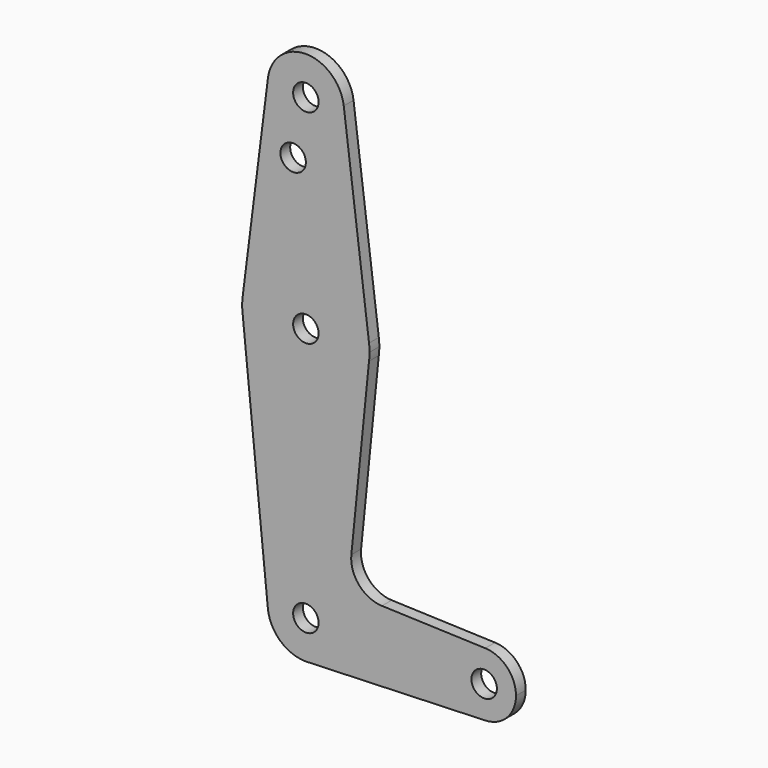
from build123d import *

# Parameters (mm, degrees)
F0_R     = 3.175
F1_DEPTH = 3.048


with BuildPart() as f1:
    # F0 (on Front) → F1 (new body)
    with BuildSketch(Plane.XZ):
        with BuildLine():
            ThreePointArc((15.750488, 61.515625), (15.843841, 62.505861), (15.875, 63.5))
            ThreePointArc((15.875, 63.5), (15.843841, 64.494139), (15.750488, 65.484375))
            ThreePointArc((15.750488, 65.484375), (0, 79.375), (-15.750488, 65.484375))
            ThreePointArc((-15.750488, 65.484375), (-15.875, 63.5), (-15.750488, 61.515625))
            ThreePointArc((-15.750488, 61.515625), (0, 47.625), (15.750488, 61.515625))
        make_face()
        with Locations((0, 63.5)):
            Circle(F0_R, mode=Mode.SUBTRACT)
        with BuildLine():
            ThreePointArc((-15.750488, 65.484375), (0, 79.375), (15.750488, 65.484375))
            Line((15.750488, 65.484375), (9.450293, 115.490625))
            ThreePointArc((9.450293, 115.490625), (9.506305, 114.896483), (9.525, 114.3))
            ThreePointArc((9.525, 114.3), (-0.596483, 104.793695), (-9.450293, 115.490625))
            Line((-9.450293, 115.490625), (-15.750488, 65.484375))
        make_face()
        with Locations((-3.175, 100.0252)):
            Circle(F0_R, mode=Mode.SUBTRACT)
        with BuildLine():
            Line((11.339279, 17.589312), (15.750488, 61.515625))
            ThreePointArc((15.750488, 61.515625), (0, 47.625), (-15.750488, 61.515625))
            Line((-15.750488, 61.515625), (-9.477332, -0.951742))
            ThreePointArc((-9.477332, -0.951742), (-7.063673, 6.389847), (0, 9.525))
            ThreePointArc((0, 9.525), (0.338886, 9.51897), (0.677344, 9.500886))
            ThreePointArc((0.677344, 9.500886), (6.970557, 6.491299), (9.525, 0))
            ThreePointArc((9.525, 0), (9.513075, -0.476467), (9.477332, -0.951742))
            ThreePointArc((9.477332, -0.951742), (6.637117, -6.831859), (0.677344, -9.500886))
            Line((0.677344, -9.500886), (44.732405, -7.932475))
            ThreePointArc((44.732405, -7.932475), (36.5125, 0), (44.732405, 7.932475))
            Line((44.732405, 7.932475), (18.966834, 8.849759))
            ThreePointArc((18.966834, 8.849759), (13.25992, 11.567276), (11.339279, 17.589312))
        make_face()
        with BuildLine():
            ThreePointArc((9.525, 114.3), (9.506305, 114.896483), (9.450293, 115.490625))
            ThreePointArc((9.450293, 115.490625), (0, 123.825), (-9.450293, 115.490625))
            ThreePointArc((-9.450293, 115.490625), (-0.596483, 104.793695), (9.525, 114.3))
        make_face()
        with Locations((0, 114.3)):
            Circle(F0_R, mode=Mode.SUBTRACT)
        with BuildLine():
            ThreePointArc((0, 9.525), (-7.063673, 6.389847), (-9.477332, -0.951742))
            ThreePointArc((-9.477332, -0.951742), (-6.389847, -7.063673), (0, -9.525))
            Line((0, -9.525), (0.677344, -9.500886))
            ThreePointArc((0.677344, -9.500886), (6.637117, -6.831859), (9.477332, -0.951742))
            ThreePointArc((9.477332, -0.951742), (9.513075, -0.476467), (9.525, 0))
            ThreePointArc((9.525, 0), (6.970557, 6.491299), (0.677344, 9.500886))
            Line((0.677344, 9.500886), (0, 9.525))
        make_face()
        Circle(F0_R, mode=Mode.SUBTRACT)
        with BuildLine():
            Line((0.677344, -9.500886), (0, -9.525))
            ThreePointArc((0, -9.525), (0.338886, -9.51897), (0.677344, -9.500886))
        make_face()
        with BuildLine():
            ThreePointArc((52.3875, 0), (50.161633, 5.51191), (44.732405, 7.932475))
            ThreePointArc((44.732405, 7.932475), (36.5125, 0), (44.732405, -7.932475))
            ThreePointArc((44.732405, -7.932475), (50.161633, -5.51191), (52.3875, 0))
        make_face()
        with Locations((44.45, 0)):
            Circle(F0_R, mode=Mode.SUBTRACT)
    extrude(amount=F1_DEPTH)


solid = f1.part
